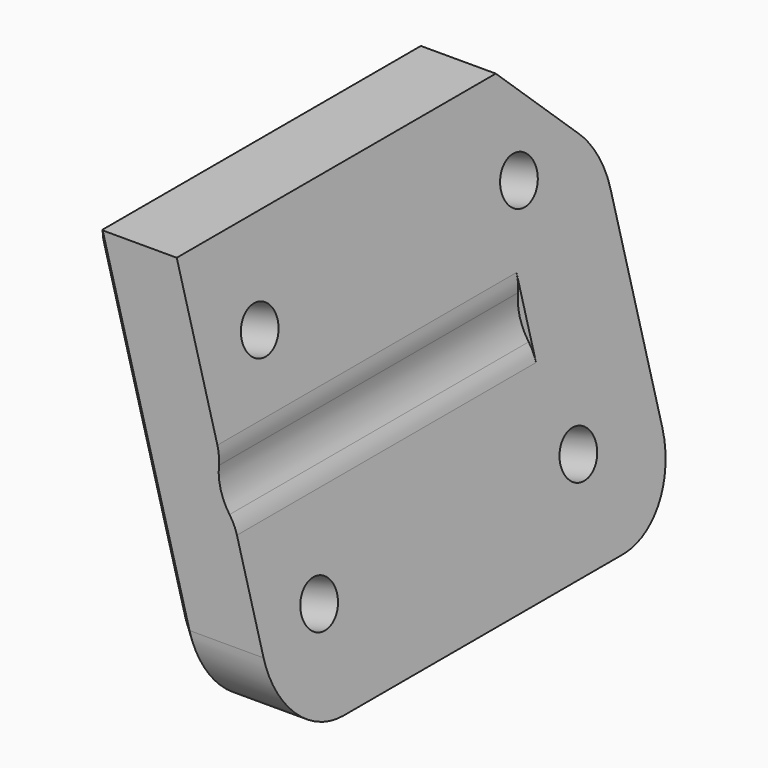
from build123d import *

# Parameters (mm, degrees)
CYLINDER119_R               = 2
CYLINDER119_DEPTH           = 1
CYLINDER119_PLACEMENT_ANGLE = 75
CYLINDER121_R               = 2
CYLINDER121_DEPTH           = 1
CYLINDER121_PLACEMENT_ANGLE = 75
CYLINDER122_R               = 2
CYLINDER122_DEPTH           = 1.4
CYLINDER122_PLACEMENT_ANGLE = 75
CYLINDER120_R               = 2
CYLINDER120_DEPTH           = 1.4
CYLINDER120_PLACEMENT_ANGLE = 75
CYLINDER118_R               = 2.4
CYLINDER118_DEPTH           = 15
CYLINDER118_ROLL_ANGLE      = 90
CYLINDER116_R               = 0.9
CYLINDER116_DEPTH           = 9
CYLINDER116_PLACEMENT_ANGLE = 75
CYLINDER117_R               = 0.9
CYLINDER117_DEPTH           = 9
CYLINDER117_PLACEMENT_ANGLE = 75
CYLINDER115_R               = 0.9
CYLINDER115_DEPTH           = 9
CYLINDER115_PLACEMENT_ANGLE = 75
CYLINDER114_R               = 0.9
CYLINDER114_DEPTH           = 9
CYLINDER114_PLACEMENT_ANGLE = 75
BOX098_W                    = 40
BOX098_H                    = 156
BOX098_DEPTH                = 130
BOX098_PITCH_ANGLE          = -15
BOX099_W                    = 30
BOX099_H                    = 156
BOX099_DEPTH                = 130
BOX099_PITCH_ANGLE          = -15
BOX100_W                    = 10
BOX100_H                    = 20
BOX100_DEPTH                = 16
CHAMFER010_SIZE             = 4
FILLET024_R                 = 3
CHAMFER011_SIZE             = 1
FILLET025_R                 = 2


with BuildPart() as cylinder119:
    # Cylinder119 → Cylinder119 (new body)
    with BuildSketch(Plane.XY):
        Circle(CYLINDER119_R)
    extrude(amount=CYLINDER119_DEPTH)


with BuildPart() as cylinder119_1:
    # Cylinder119 placement: moved
    add(cylinder119.part.moved(Location((509, -34, 102.5))).rotate(Axis((509, -34, 102.5), (0, 1, 0)), CYLINDER119_PLACEMENT_ANGLE))


with BuildPart() as fusion122:
    # Cylinder121 → Cylinder121 (new body)
    with BuildSketch(Plane.XY):
        Circle(CYLINDER121_R)
    extrude(amount=CYLINDER121_DEPTH)


with BuildPart() as fusion122_1:
    # Cylinder121 placement: moved
    add(fusion122.part.moved(Location((509, -21, 102.5))).rotate(Axis((509, -21, 102.5), (0, 1, 0)), CYLINDER121_PLACEMENT_ANGLE))

    # Fusion122: union Cylinder119
    add(cylinder119_1.part)


with BuildPart() as cylinder122:
    # Cylinder122 → Cylinder122 (new body)
    with BuildSketch(Plane.XY):
        Circle(CYLINDER122_R)
    extrude(amount=CYLINDER122_DEPTH)


with BuildPart() as cylinder122_1:
    # Cylinder122 placement: moved
    add(cylinder122.part.moved(Location((509, -34, 102.5))).rotate(Axis((509, -34, 102.5), (0, 1, 0)), CYLINDER122_PLACEMENT_ANGLE))


with BuildPart() as fusion123:
    # Cylinder120 → Cylinder120 (new body)
    with BuildSketch(Plane.XY):
        Circle(CYLINDER120_R)
    extrude(amount=CYLINDER120_DEPTH)


with BuildPart() as fusion123_1:
    # Cylinder120 placement: moved
    add(fusion123.part.moved(Location((509, -21, 102.5))).rotate(Axis((509, -21, 102.5), (0, 1, 0)), CYLINDER120_PLACEMENT_ANGLE))

    # Fusion124: union Cylinder122
    add(cylinder122_1.part)


with BuildPart() as fusion123_2:
    # Fusion124 placement: moved
    add(fusion123_1.part.moved(Location((2, 0, -9))))

    # Fusion123: union Fusion122
    add(fusion122_1.part)


with BuildPart() as cylinder118:
    # Cylinder118 → Cylinder118 (new body)
    with BuildSketch(Plane.XY):
        Circle(CYLINDER118_R)
    extrude(amount=CYLINDER118_DEPTH)


with BuildPart() as cylinder118_1:
    # Cylinder118 roll: moved
    add(cylinder118.part.rotate(Axis((0, 0, 0), (1, 0, 0)), CYLINDER118_ROLL_ANGLE))


with BuildPart() as cylinder118_2:
    # Cylinder118 placement: moved
    add(cylinder118_1.part.moved(Location((516, -22, 100))))


with BuildPart() as cylinder116:
    # Cylinder116 → Cylinder116 (new body)
    with BuildSketch(Plane.XY):
        Circle(CYLINDER116_R)
    extrude(amount=CYLINDER116_DEPTH)


with BuildPart() as cylinder116_1:
    # Cylinder116 placement: moved
    add(cylinder116.part.moved(Location((509, -34, 102.5))).rotate(Axis((509, -34, 102.5), (0, 1, 0)), CYLINDER116_PLACEMENT_ANGLE))


with BuildPart() as fusion120:
    # Cylinder117 → Cylinder117 (new body)
    with BuildSketch(Plane.XY):
        Circle(CYLINDER117_R)
    extrude(amount=CYLINDER117_DEPTH)


with BuildPart() as fusion120_1:
    # Cylinder117 placement: moved
    add(fusion120.part.moved(Location((509, -21, 102.5))).rotate(Axis((509, -21, 102.5), (0, 1, 0)), CYLINDER117_PLACEMENT_ANGLE))

    # Fusion120: union Cylinder116
    add(cylinder116_1.part)


with BuildPart() as cylinder115:
    # Cylinder115 → Cylinder115 (new body)
    with BuildSketch(Plane.XY):
        Circle(CYLINDER115_R)
    extrude(amount=CYLINDER115_DEPTH)


with BuildPart() as cylinder115_1:
    # Cylinder115 placement: moved
    add(cylinder115.part.moved(Location((509, -34, 102.5))).rotate(Axis((509, -34, 102.5), (0, 1, 0)), CYLINDER115_PLACEMENT_ANGLE))


with BuildPart() as fusion121:
    # Cylinder114 → Cylinder114 (new body)
    with BuildSketch(Plane.XY):
        Circle(CYLINDER114_R)
    extrude(amount=CYLINDER114_DEPTH)


with BuildPart() as fusion121_1:
    # Cylinder114 placement: moved
    add(fusion121.part.moved(Location((509, -21, 102.5))).rotate(Axis((509, -21, 102.5), (0, 1, 0)), CYLINDER114_PLACEMENT_ANGLE))

    # Fusion119: union Cylinder115
    add(cylinder115_1.part)


with BuildPart() as fusion121_2:
    # Fusion119 placement: moved
    add(fusion121_1.part.moved(Location((2, 0, -9))))

    # Fusion121: union Fusion120
    add(fusion120_1.part)


with BuildPart() as cube070:
    # Box098 → Box098 (new body)
    with BuildSketch(Plane.XY):
        with Locations((20, 78)):
            Rectangle(BOX098_W, BOX098_H)
    extrude(amount=BOX098_DEPTH)


with BuildPart() as cube070_1:
    # Box098 pitch: moved
    add(cube070.part.rotate(Axis((0, 0, 0), (0, 1, 0)), BOX098_PITCH_ANGLE))


with BuildPart() as cube070_2:
    # Box098 placement: moved
    add(cube070_1.part.moved(Location((569, -38, -9))))


with BuildPart() as fusion118:
    # Box099 → Box099 (new body)
    with BuildSketch(Plane.XY):
        with Locations((15, 78)):
            Rectangle(BOX099_W, BOX099_H)
    extrude(amount=BOX099_DEPTH)


with BuildPart() as fusion118_1:
    # Box099 pitch: moved
    add(fusion118.part.rotate(Axis((0, 0, 0), (0, 1, 0)), BOX099_PITCH_ANGLE))


with BuildPart() as fusion118_2:
    # Box099 placement: moved
    add(fusion118_1.part.moved(Location((533.4, -38, -7))))

    # Fusion118: union Cube070
    add(cube070_2.part)


with BuildPart() as fusion118_3:
    # Fusion118 placement: moved
    add(fusion118_2.part.moved(Location((-22, 0, 0))))


with BuildPart() as door_rear_bar_holder_left:
    # Box100 → Box100 (new body)
    with BuildSketch(Plane(origin=(511, -37, 98), x_dir=(1, 0, 0), z_dir=(0, 0, 1))):
        with Locations((5, 10)):
            Rectangle(BOX100_W, BOX100_H)
    extrude(amount=BOX100_DEPTH)

    # Chamfer010
    chamfer010_edges = [door_rear_bar_holder_left.edges().sort_by_distance(p)[0] for p in [
        (516, -17, 114),
    ]]
    chamfer(chamfer010_edges, length=CHAMFER010_SIZE)


with BuildPart() as door_rear_bar_holder_left_1:
    # Chamfer010 placement: moved
    add(door_rear_bar_holder_left.part.moved(Location((0, 0, -7))))

    # Cut117: cut Fusion118
    add(fusion118_3.part, mode=Mode.SUBTRACT)


with BuildPart() as door_rear_bar_holder_left_2:
    # Cut117 placement: moved
    add(door_rear_bar_holder_left_1.part.moved(Location((-4, 0, 0))))

    # Cut118: cut Fusion121
    add(fusion121_2.part, mode=Mode.SUBTRACT)

    # Fillet024
    fillet024_edges = [door_rear_bar_holder_left_2.edges().sort_by_distance(p)[0] for p in [
        (510.986782, -17, 103),
        (514.202173, -37, 91),
        (514.202173, -17, 91),
    ]]
    fillet(fillet024_edges, radius=FILLET024_R)

    # Chamfer011
    chamfer011_edges = [door_rear_bar_holder_left_2.edges().sort_by_distance(p)[0] for p in [
        (507.912077, -29, 107),
        (512.199265, -27, 91),
    ]]
    chamfer(chamfer011_edges, length=CHAMFER011_SIZE)

    # Cut119: cut Cylinder118
    add(cylinder118_2.part, mode=Mode.SUBTRACT)

    # Fillet025
    fillet025_edges = [door_rear_bar_holder_left_2.edges().sort_by_distance(p)[0] for p in [
        (514.226943, -29.5, 98.382512),
        (513.655743, -29.5, 100.514257),
    ]]
    fillet(fillet025_edges, radius=FILLET025_R)

    # Cut120: cut Fusion123
    add(fusion123_2.part, mode=Mode.SUBTRACT)


solid = door_rear_bar_holder_left_2.part
